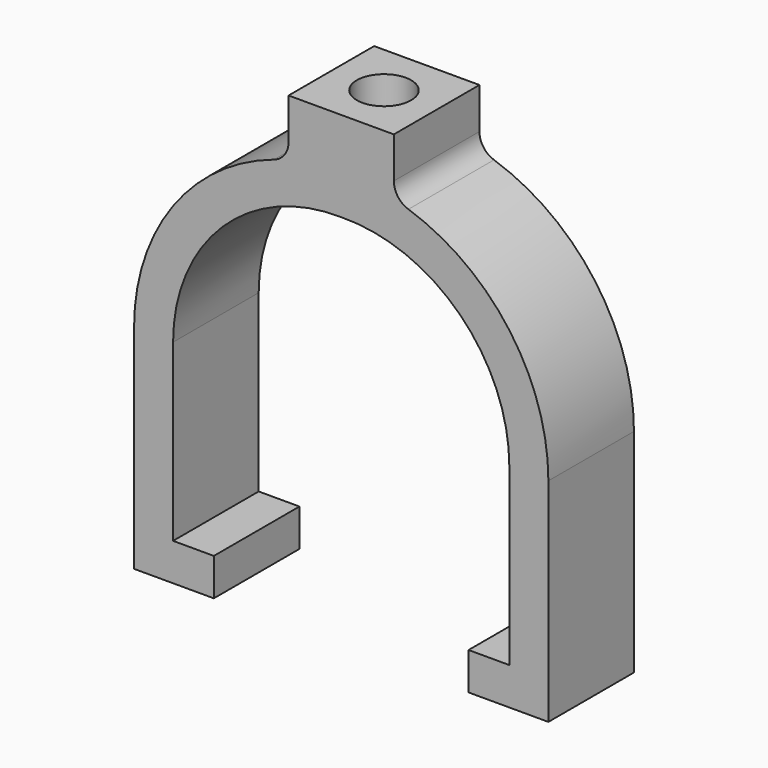
from build123d import *

# Parameters (mm, degrees)
F1_DEPTH = 63
F2_R     = 16
F3_DEPTH = 275.001


with BuildPart() as f1:
    # F0 (on Front) → F1 (new body)
    with BuildSketch(Plane.XZ):
        with BuildLine():
            Line((-122, 125), (-122, 0))
            Line((-122, 0), (-75, 0))
            Line((-75, 0), (-75, 22))
            Line((-75, 22), (-99, 22))
            Line((-99, 22), (-99, 125))
            ThreePointArc((-99, 125), (-69.878568, 194.292857), (0, 221.979379))
            ThreePointArc((0, 221.979379), (69.878568, 194.292857), (99, 125))
            Line((99, 125), (99, 22))
            Line((99, 22), (75, 22))
            Line((75, 22), (75, 0))
            Line((75, 0), (122, 0))
            Line((122, 0), (122, 125))
            ThreePointArc((122, 125), (99.237309, 195.320023), (39.584906, 238.962164))
            ThreePointArc((39.584906, 238.962164), (33.371114, 243.508221), (31, 250.833223))
            Line((31, 250.833223), (31, 275))
            Line((31, 275), (0, 275))
            Line((0, 275), (-31, 275))
            Line((-31, 275), (-31, 250.833223))
            ThreePointArc((-31, 250.833223), (-33.371114, 243.508221), (-39.584906, 238.962164))
            ThreePointArc((-39.584906, 238.962164), (-99.237309, 195.320023), (-122, 125))
        make_face()
    extrude(amount=F1_DEPTH)

    # F2 (on face) → F3 (cut, through all)
    with BuildSketch(Plane.XY.offset(275)):
        with Locations((0, -31.5)):
            Circle(F2_R)
    extrude(amount=-F3_DEPTH, mode=Mode.SUBTRACT)


solid = f1.part
